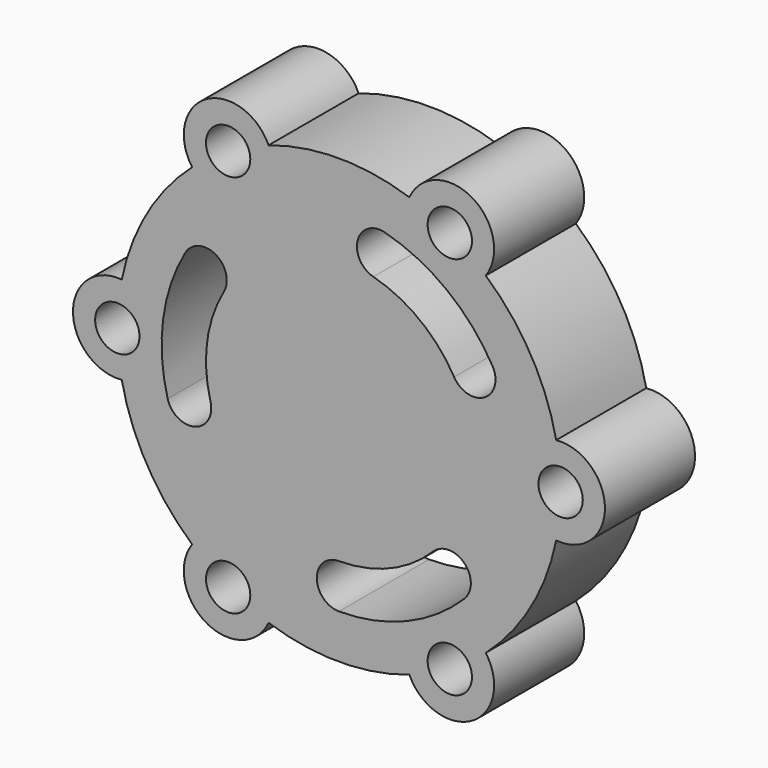
from build123d import *

# Parameters (mm, degrees)
F0_R     = 5
F1_DEPTH = 12.7


with BuildPart() as f1:
    # F0 (on Front) → F1 (new body, symmetric)
    with BuildSketch(Plane.XZ):
        with BuildLine():
            ThreePointArc((-49, 9.949874), (-60, 0), (-49, -9.949874))
            ThreePointArc((-49, -9.949874), (-43.30127, -25), (-33.116844, -37.460308))
            ThreePointArc((-33.116844, -37.460308), (-30, -51.961524), (-15.883156, -47.410182))
            ThreePointArc((-15.883156, -47.410182), (0, -50), (15.883156, -47.410182))
            ThreePointArc((15.883156, -47.410182), (30, -51.961524), (33.116844, -37.460308))
            ThreePointArc((33.116844, -37.460308), (43.30127, -25), (49, -9.949874))
            ThreePointArc((49, -9.949874), (60, 0), (49, 9.949874))
            ThreePointArc((49, 9.949874), (43.30127, 25), (33.116844, 37.460308))
            ThreePointArc((33.116844, 37.460308), (30, 51.961524), (15.883156, 47.410182))
            ThreePointArc((15.883156, 47.410182), (0, 50), (-15.883156, 47.410182))
            ThreePointArc((-15.883156, 47.410182), (-30, 51.961524), (-33.116844, 37.460308))
            ThreePointArc((-33.116844, 37.460308), (-43.30127, 25), (-49, 9.949874))
        make_face()
        with Locations((-25, -43.30127)):
            Circle(F0_R, mode=Mode.SUBTRACT)
        with Locations((25, -43.30127)):
            Circle(F0_R, mode=Mode.SUBTRACT)
        with BuildLine():
            ThreePointArc((28.284271, -28.284271), (15.307337, -36.955181), (0, -40))
            ThreePointArc((0, -40), (-5, -35), (0, -30))
            ThreePointArc((0, -30), (11.480503, -27.716386), (21.213203, -21.213203))
            ThreePointArc((21.213203, -21.213203), (28.284271, -21.213203), (28.284271, -28.284271))
        make_face(mode=Mode.SUBTRACT)
        with Locations((-50, 0)):
            Circle(F0_R, mode=Mode.SUBTRACT)
        with BuildLine():
            ThreePointArc((-38.637033, -10.352762), (-39.657794, 5.221048), (-34.641016, 20))
            ThreePointArc((-34.641016, 20), (-27.810889, 21.830127), (-25.980762, 15))
            ThreePointArc((-25.980762, 15), (-29.743346, 3.915786), (-28.977775, -7.764571))
            ThreePointArc((-28.977775, -7.764571), (-32.513309, -13.888296), (-38.637033, -10.352762))
        make_face(mode=Mode.SUBTRACT)
        with Locations((-25, 43.30127)):
            Circle(F0_R, mode=Mode.SUBTRACT)
        with BuildLine():
            ThreePointArc((7.764571, 28.977775), (4.229037, 35.101499), (10.352762, 38.637033))
            ThreePointArc((10.352762, 38.637033), (24.350457, 31.734134), (34.641016, 20))
            ThreePointArc((34.641016, 20), (32.810889, 13.169873), (25.980762, 15))
            ThreePointArc((25.980762, 15), (18.262843, 23.8006), (7.764571, 28.977775))
        make_face(mode=Mode.SUBTRACT)
        with Locations((50, 0)):
            Circle(F0_R, mode=Mode.SUBTRACT)
        with Locations((25, 43.30127)):
            Circle(F0_R, mode=Mode.SUBTRACT)
    extrude(amount=F1_DEPTH, both=True)


solid = f1.part
